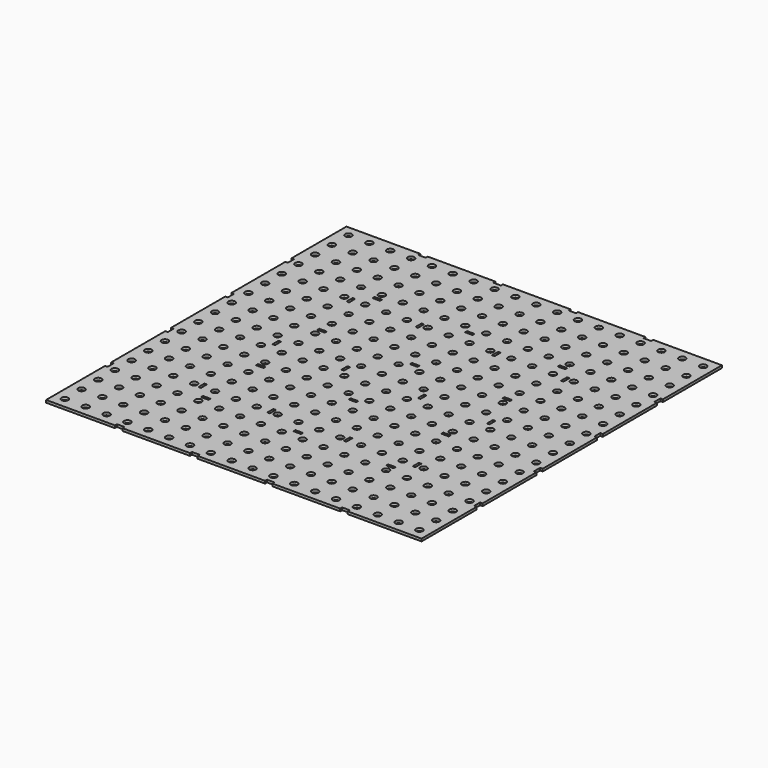
from build123d import *

# Parameters (mm, degrees)
F0_R     = 8
F0_W     = 18.02
F0_H     = 6.01
F0_W_2   = 6.01
F0_H_2   = 18.1
F1_DEPTH = 6
F2_R     = 8
F3_DEPTH = 6


with BuildPart() as f1:
    # F0 (on Top) → F1 (new body)
    with BuildSketch(Plane.XY):
        Polygon((-25, -698.02), (-25, -874.92), (140, -874.92), (140, -868.91), (158.1, -868.91), (158.1, -874.92), (320, -874.92), (320, -868.91), (338.1, -868.91), (338.1, -874.92), (500, -874.92), (500, -868.91), (518.1, -868.91), (518.1, -874.92), (680, -874.92), (680, -868.91), (698.1, -868.91), (698.1, -874.92), (875, -874.92), (875, -709.92), (868.99, -709.92), (868.99, -691.82), (875, -691.82), (875, -529.92), (868.99, -529.92), (868.99, -511.82), (875, -511.82), (875, -349.92), (868.99, -349.92), (868.99, -331.82), (875, -331.82), (875, -169.92), (868.99, -169.92), (868.99, -151.82), (875, -151.82), (875, 25.08), (710, 25.08), (710, 19.07), (691.9, 19.07), (691.9, 25.08), (530, 25.08), (530, 19.07), (511.9, 19.07), (511.9, 25.08), (350, 25.08), (350, 19.07), (331.9, 19.07), (331.9, 25.08), (170, 25.08), (170, 19.07), (151.9, 19.07), (151.9, 25.08), (-25, 25.08), (-25, -139.92), (-18.99, -139.92), (-18.99, -158.02), (-25, -158.02), (-25, -319.92), (-18.99, -319.92), (-18.99, -338.02), (-25, -338.02), (-25, -499.92), (-18.99, -499.92), (-18.99, -518.02), (-25, -518.02), (-25, -679.92), (-18.99, -679.92), (-18.99, -698.02), align=None)
        with Locations((0, -849.92)):
            Circle(F0_R, mode=Mode.SUBTRACT)
        with Locations((50, -849.92)):
            Circle(F0_R, mode=Mode.SUBTRACT)
        with Locations((0, -799.92)):
            Circle(F0_R, mode=Mode.SUBTRACT)
        with Locations((50, -799.92)):
            Circle(F0_R, mode=Mode.SUBTRACT)
        with Locations((100, -849.92)):
            Circle(F0_R, mode=Mode.SUBTRACT)
        with Locations((150, -849.92)):
            Circle(F0_R, mode=Mode.SUBTRACT)
        with Locations((100, -799.92)):
            Circle(F0_R, mode=Mode.SUBTRACT)
        with Locations((150, -799.92)):
            Circle(F0_R, mode=Mode.SUBTRACT)
        with Locations((0, -749.92)):
            Circle(F0_R, mode=Mode.SUBTRACT)
        with Locations((50, -749.92)):
            Circle(F0_R, mode=Mode.SUBTRACT)
        with Locations((0, -699.92)):
            Circle(F0_R, mode=Mode.SUBTRACT)
        with Locations((50, -699.92)):
            Circle(F0_R, mode=Mode.SUBTRACT)
        with Locations((100, -749.92)):
            Circle(F0_R, mode=Mode.SUBTRACT)
        with Locations((150, -749.92)):
            Circle(F0_R, mode=Mode.SUBTRACT)
        with Locations((100, -699.92)):
            Circle(F0_R, mode=Mode.SUBTRACT)
        with Locations((150, -699.92)):
            Circle(F0_R, mode=Mode.SUBTRACT)
        with Locations((200, -849.92)):
            Circle(F0_R, mode=Mode.SUBTRACT)
        with Locations((250, -849.92)):
            Circle(F0_R, mode=Mode.SUBTRACT)
        with Locations((300, -849.92)):
            Circle(F0_R, mode=Mode.SUBTRACT)
        with Locations((200, -799.92)):
            Circle(F0_R, mode=Mode.SUBTRACT)
        with Locations((250, -799.92)):
            Circle(F0_R, mode=Mode.SUBTRACT)
        with Locations((300, -799.92)):
            Circle(F0_R, mode=Mode.SUBTRACT)
        with Locations((350, -849.92)):
            Circle(F0_R, mode=Mode.SUBTRACT)
        with Locations((400, -849.92)):
            Circle(F0_R, mode=Mode.SUBTRACT)
        with Locations((350, -799.92)):
            Circle(F0_R, mode=Mode.SUBTRACT)
        with Locations((400, -799.92)):
            Circle(F0_R, mode=Mode.SUBTRACT)
        with Locations((200, -749.92)):
            Circle(F0_R, mode=Mode.SUBTRACT)
        with Locations((250, -749.92)):
            Circle(F0_R, mode=Mode.SUBTRACT)
        with Locations((300, -749.92)):
            Circle(F0_R, mode=Mode.SUBTRACT)
        with Locations((200, -699.92)):
            Circle(F0_R, mode=Mode.SUBTRACT)
        with Locations((203, -681.915)):
            Rectangle(F0_W, F0_H, mode=Mode.SUBTRACT)
        with Locations((250, -699.92)):
            Circle(F0_R, mode=Mode.SUBTRACT)
        with Locations((300, -699.92)):
            Circle(F0_R, mode=Mode.SUBTRACT)
        with Locations((350, -749.92)):
            Circle(F0_R, mode=Mode.SUBTRACT)
        with Locations((400, -749.92)):
            Circle(F0_R, mode=Mode.SUBTRACT)
        with Locations((350, -699.92)):
            Circle(F0_R, mode=Mode.SUBTRACT)
        with Locations((400, -699.92)):
            Circle(F0_R, mode=Mode.SUBTRACT)
        with Locations((0, -649.92)):
            Circle(F0_R, mode=Mode.SUBTRACT)
        with Locations((0, -599.92)):
            Circle(F0_R, mode=Mode.SUBTRACT)
        with Locations((50, -649.92)):
            Circle(F0_R, mode=Mode.SUBTRACT)
        with Locations((50, -599.92)):
            Circle(F0_R, mode=Mode.SUBTRACT)
        with Locations((0, -549.92)):
            Circle(F0_R, mode=Mode.SUBTRACT)
        with Locations((50, -549.92)):
            Circle(F0_R, mode=Mode.SUBTRACT)
        with Locations((100, -649.92)):
            Circle(F0_R, mode=Mode.SUBTRACT)
        with Locations((100, -599.92)):
            Circle(F0_R, mode=Mode.SUBTRACT)
        with Locations((150, -649.92)):
            Circle(F0_R, mode=Mode.SUBTRACT)
        with Locations((168.005, -646.96)):
            Rectangle(F0_W_2, F0_H_2, mode=Mode.SUBTRACT)
        with Locations((150, -599.92)):
            Circle(F0_R, mode=Mode.SUBTRACT)
        with Locations((100, -549.92)):
            Circle(F0_R, mode=Mode.SUBTRACT)
        with Locations((150, -549.92)):
            Circle(F0_R, mode=Mode.SUBTRACT)
        with Locations((0, -499.92)):
            Circle(F0_R, mode=Mode.SUBTRACT)
        with Locations((50, -499.92)):
            Circle(F0_R, mode=Mode.SUBTRACT)
        with Locations((0, -449.92)):
            Circle(F0_R, mode=Mode.SUBTRACT)
        with Locations((50, -449.92)):
            Circle(F0_R, mode=Mode.SUBTRACT)
        with Locations((100, -499.92)):
            Circle(F0_R, mode=Mode.SUBTRACT)
        with Locations((150, -499.92)):
            Circle(F0_R, mode=Mode.SUBTRACT)
        with Locations((100, -449.92)):
            Circle(F0_R, mode=Mode.SUBTRACT)
        with Locations((150, -449.92)):
            Circle(F0_R, mode=Mode.SUBTRACT)
        with Locations((168.005, -424.96)):
            Rectangle(F0_W_2, F0_H_2, mode=Mode.SUBTRACT)
        with Locations((200, -649.92)):
            Circle(F0_R, mode=Mode.SUBTRACT)
        with Locations((250, -649.92)):
            Circle(F0_R, mode=Mode.SUBTRACT)
        with Locations((200, -599.92)):
            Circle(F0_R, mode=Mode.SUBTRACT)
        with Locations((250, -599.92)):
            Circle(F0_R, mode=Mode.SUBTRACT)
        with Locations((300, -649.92)):
            Circle(F0_R, mode=Mode.SUBTRACT)
        with Locations((300, -599.92)):
            Circle(F0_R, mode=Mode.SUBTRACT)
        with Locations((200, -549.92)):
            Circle(F0_R, mode=Mode.SUBTRACT)
        with Locations((250, -549.92)):
            Circle(F0_R, mode=Mode.SUBTRACT)
        with Locations((300, -549.92)):
            Circle(F0_R, mode=Mode.SUBTRACT)
        with Locations((333.205, -646.96)):
            Rectangle(F0_W_2, F0_H_2, mode=Mode.SUBTRACT)
        with Locations((350, -649.92)):
            Circle(F0_R, mode=Mode.SUBTRACT)
        with Locations((350, -599.92)):
            Circle(F0_R, mode=Mode.SUBTRACT)
        with Locations((400, -649.92)):
            Circle(F0_R, mode=Mode.SUBTRACT)
        with Locations((400, -599.92)):
            Circle(F0_R, mode=Mode.SUBTRACT)
        with Locations((350, -549.92)):
            Circle(F0_R, mode=Mode.SUBTRACT)
        with Locations((400, -549.92)):
            Circle(F0_R, mode=Mode.SUBTRACT)
        with Locations((203, -516.715)):
            Rectangle(F0_W, F0_H, mode=Mode.SUBTRACT)
        with Locations((200, -499.92)):
            Circle(F0_R, mode=Mode.SUBTRACT)
        with Locations((250, -499.92)):
            Circle(F0_R, mode=Mode.SUBTRACT)
        with Locations((300, -499.92)):
            Circle(F0_R, mode=Mode.SUBTRACT)
        with Locations((200, -449.92)):
            Circle(F0_R, mode=Mode.SUBTRACT)
        with Locations((250, -449.92)):
            Circle(F0_R, mode=Mode.SUBTRACT)
        with Locations((300, -449.92)):
            Circle(F0_R, mode=Mode.SUBTRACT)
        with Locations((350, -499.92)):
            Circle(F0_R, mode=Mode.SUBTRACT)
        with Locations((400, -499.92)):
            Circle(F0_R, mode=Mode.SUBTRACT)
        with Locations((333.205, -424.96)):
            Rectangle(F0_W_2, F0_H_2, mode=Mode.SUBTRACT)
        with Locations((350, -449.92)):
            Circle(F0_R, mode=Mode.SUBTRACT)
        with Locations((400, -449.92)):
            Circle(F0_R, mode=Mode.SUBTRACT)
        with Locations((450, -849.92)):
            Circle(F0_R, mode=Mode.SUBTRACT)
        with Locations((500, -849.92)):
            Circle(F0_R, mode=Mode.SUBTRACT)
        with Locations((450, -799.92)):
            Circle(F0_R, mode=Mode.SUBTRACT)
        with Locations((500, -799.92)):
            Circle(F0_R, mode=Mode.SUBTRACT)
        with Locations((550, -849.92)):
            Circle(F0_R, mode=Mode.SUBTRACT)
        with Locations((600, -849.92)):
            Circle(F0_R, mode=Mode.SUBTRACT)
        with Locations((550, -799.92)):
            Circle(F0_R, mode=Mode.SUBTRACT)
        with Locations((600, -799.92)):
            Circle(F0_R, mode=Mode.SUBTRACT)
        with Locations((450, -749.92)):
            Circle(F0_R, mode=Mode.SUBTRACT)
        with Locations((500, -749.92)):
            Circle(F0_R, mode=Mode.SUBTRACT)
        with Locations((450, -699.92)):
            Circle(F0_R, mode=Mode.SUBTRACT)
        with Locations((425, -681.915)):
            Rectangle(F0_W, F0_H, mode=Mode.SUBTRACT)
        with Locations((500, -699.92)):
            Circle(F0_R, mode=Mode.SUBTRACT)
        with Locations((550, -749.92)):
            Circle(F0_R, mode=Mode.SUBTRACT)
        with Locations((600, -749.92)):
            Circle(F0_R, mode=Mode.SUBTRACT)
        with Locations((550, -699.92)):
            Circle(F0_R, mode=Mode.SUBTRACT)
        with Locations((600, -699.92)):
            Circle(F0_R, mode=Mode.SUBTRACT)
        with Locations((647, -681.915)):
            Rectangle(F0_W, F0_H, mode=Mode.SUBTRACT)
        with Locations((650, -849.92)):
            Circle(F0_R, mode=Mode.SUBTRACT)
        with Locations((700, -849.92)):
            Circle(F0_R, mode=Mode.SUBTRACT)
        with Locations((750, -849.92)):
            Circle(F0_R, mode=Mode.SUBTRACT)
        with Locations((650, -799.92)):
            Circle(F0_R, mode=Mode.SUBTRACT)
        with Locations((700, -799.92)):
            Circle(F0_R, mode=Mode.SUBTRACT)
        with Locations((750, -799.92)):
            Circle(F0_R, mode=Mode.SUBTRACT)
        with Locations((800, -849.92)):
            Circle(F0_R, mode=Mode.SUBTRACT)
        with Locations((850, -849.92)):
            Circle(F0_R, mode=Mode.SUBTRACT)
        with Locations((800, -799.92)):
            Circle(F0_R, mode=Mode.SUBTRACT)
        with Locations((850, -799.92)):
            Circle(F0_R, mode=Mode.SUBTRACT)
        with Locations((650, -749.92)):
            Circle(F0_R, mode=Mode.SUBTRACT)
        with Locations((700, -749.92)):
            Circle(F0_R, mode=Mode.SUBTRACT)
        with Locations((750, -749.92)):
            Circle(F0_R, mode=Mode.SUBTRACT)
        with Locations((650, -699.92)):
            Circle(F0_R, mode=Mode.SUBTRACT)
        with Locations((700, -699.92)):
            Circle(F0_R, mode=Mode.SUBTRACT)
        with Locations((750, -699.92)):
            Circle(F0_R, mode=Mode.SUBTRACT)
        with Locations((800, -749.92)):
            Circle(F0_R, mode=Mode.SUBTRACT)
        with Locations((850, -749.92)):
            Circle(F0_R, mode=Mode.SUBTRACT)
        with Locations((800, -699.92)):
            Circle(F0_R, mode=Mode.SUBTRACT)
        with Locations((850, -699.92)):
            Circle(F0_R, mode=Mode.SUBTRACT)
        with Locations((450, -649.92)):
            Circle(F0_R, mode=Mode.SUBTRACT)
        with Locations((450, -599.92)):
            Circle(F0_R, mode=Mode.SUBTRACT)
        with Locations((500, -649.92)):
            Circle(F0_R, mode=Mode.SUBTRACT)
        with Locations((516.795, -646.96)):
            Rectangle(F0_W_2, F0_H_2, mode=Mode.SUBTRACT)
        with Locations((500, -599.92)):
            Circle(F0_R, mode=Mode.SUBTRACT)
        with Locations((450, -549.92)):
            Circle(F0_R, mode=Mode.SUBTRACT)
        with Locations((500, -549.92)):
            Circle(F0_R, mode=Mode.SUBTRACT)
        with Locations((550, -649.92)):
            Circle(F0_R, mode=Mode.SUBTRACT)
        with Locations((550, -599.92)):
            Circle(F0_R, mode=Mode.SUBTRACT)
        with Locations((600, -649.92)):
            Circle(F0_R, mode=Mode.SUBTRACT)
        with Locations((600, -599.92)):
            Circle(F0_R, mode=Mode.SUBTRACT)
        with Locations((550, -549.92)):
            Circle(F0_R, mode=Mode.SUBTRACT)
        with Locations((600, -549.92)):
            Circle(F0_R, mode=Mode.SUBTRACT)
        with Locations((425, -516.715)):
            Rectangle(F0_W, F0_H, mode=Mode.SUBTRACT)
        with Locations((450, -499.92)):
            Circle(F0_R, mode=Mode.SUBTRACT)
        with Locations((500, -499.92)):
            Circle(F0_R, mode=Mode.SUBTRACT)
        with Locations((450, -449.92)):
            Circle(F0_R, mode=Mode.SUBTRACT)
        with Locations((500, -449.92)):
            Circle(F0_R, mode=Mode.SUBTRACT)
        with Locations((516.795, -424.96)):
            Rectangle(F0_W_2, F0_H_2, mode=Mode.SUBTRACT)
        with Locations((550, -499.92)):
            Circle(F0_R, mode=Mode.SUBTRACT)
        with Locations((647, -516.715)):
            Rectangle(F0_W, F0_H, mode=Mode.SUBTRACT)
        with Locations((600, -499.92)):
            Circle(F0_R, mode=Mode.SUBTRACT)
        with Locations((550, -449.92)):
            Circle(F0_R, mode=Mode.SUBTRACT)
        with Locations((600, -449.92)):
            Circle(F0_R, mode=Mode.SUBTRACT)
        with Locations((650, -649.92)):
            Circle(F0_R, mode=Mode.SUBTRACT)
        with Locations((681.995, -646.96)):
            Rectangle(F0_W_2, F0_H_2, mode=Mode.SUBTRACT)
        with Locations((700, -649.92)):
            Circle(F0_R, mode=Mode.SUBTRACT)
        with Locations((650, -599.92)):
            Circle(F0_R, mode=Mode.SUBTRACT)
        with Locations((700, -599.92)):
            Circle(F0_R, mode=Mode.SUBTRACT)
        with Locations((750, -649.92)):
            Circle(F0_R, mode=Mode.SUBTRACT)
        with Locations((750, -599.92)):
            Circle(F0_R, mode=Mode.SUBTRACT)
        with Locations((650, -549.92)):
            Circle(F0_R, mode=Mode.SUBTRACT)
        with Locations((700, -549.92)):
            Circle(F0_R, mode=Mode.SUBTRACT)
        with Locations((750, -549.92)):
            Circle(F0_R, mode=Mode.SUBTRACT)
        with Locations((800, -649.92)):
            Circle(F0_R, mode=Mode.SUBTRACT)
        with Locations((800, -599.92)):
            Circle(F0_R, mode=Mode.SUBTRACT)
        with Locations((850, -649.92)):
            Circle(F0_R, mode=Mode.SUBTRACT)
        with Locations((850, -599.92)):
            Circle(F0_R, mode=Mode.SUBTRACT)
        with Locations((800, -549.92)):
            Circle(F0_R, mode=Mode.SUBTRACT)
        with Locations((850, -549.92)):
            Circle(F0_R, mode=Mode.SUBTRACT)
        with Locations((650, -499.92)):
            Circle(F0_R, mode=Mode.SUBTRACT)
        with Locations((700, -499.92)):
            Circle(F0_R, mode=Mode.SUBTRACT)
        with Locations((750, -499.92)):
            Circle(F0_R, mode=Mode.SUBTRACT)
        with Locations((650, -449.92)):
            Circle(F0_R, mode=Mode.SUBTRACT)
        with Locations((700, -449.92)):
            Circle(F0_R, mode=Mode.SUBTRACT)
        with Locations((681.995, -424.96)):
            Rectangle(F0_W_2, F0_H_2, mode=Mode.SUBTRACT)
        with Locations((750, -449.92)):
            Circle(F0_R, mode=Mode.SUBTRACT)
        with Locations((800, -499.92)):
            Circle(F0_R, mode=Mode.SUBTRACT)
        with Locations((850, -499.92)):
            Circle(F0_R, mode=Mode.SUBTRACT)
        with Locations((800, -449.92)):
            Circle(F0_R, mode=Mode.SUBTRACT)
        with Locations((850, -449.92)):
            Circle(F0_R, mode=Mode.SUBTRACT)
        with Locations((0, -399.92)):
            Circle(F0_R, mode=Mode.SUBTRACT)
        with Locations((50, -399.92)):
            Circle(F0_R, mode=Mode.SUBTRACT)
        with Locations((0, -349.92)):
            Circle(F0_R, mode=Mode.SUBTRACT)
        with Locations((50, -349.92)):
            Circle(F0_R, mode=Mode.SUBTRACT)
        with Locations((100, -399.92)):
            Circle(F0_R, mode=Mode.SUBTRACT)
        with Locations((150, -399.92)):
            Circle(F0_R, mode=Mode.SUBTRACT)
        with Locations((100, -349.92)):
            Circle(F0_R, mode=Mode.SUBTRACT)
        with Locations((150, -349.92)):
            Circle(F0_R, mode=Mode.SUBTRACT)
        with Locations((0, -299.92)):
            Circle(F0_R, mode=Mode.SUBTRACT)
        with Locations((50, -299.92)):
            Circle(F0_R, mode=Mode.SUBTRACT)
        with Locations((0, -249.92)):
            Circle(F0_R, mode=Mode.SUBTRACT)
        with Locations((50, -249.92)):
            Circle(F0_R, mode=Mode.SUBTRACT)
        with Locations((100, -299.92)):
            Circle(F0_R, mode=Mode.SUBTRACT)
        with Locations((150, -299.92)):
            Circle(F0_R, mode=Mode.SUBTRACT)
        with Locations((100, -249.92)):
            Circle(F0_R, mode=Mode.SUBTRACT)
        with Locations((150, -249.92)):
            Circle(F0_R, mode=Mode.SUBTRACT)
        with Locations((168.005, -202.96)):
            Rectangle(F0_W_2, F0_H_2, mode=Mode.SUBTRACT)
        with Locations((200, -399.92)):
            Circle(F0_R, mode=Mode.SUBTRACT)
        with Locations((250, -399.92)):
            Circle(F0_R, mode=Mode.SUBTRACT)
        with Locations((300, -399.92)):
            Circle(F0_R, mode=Mode.SUBTRACT)
        with Locations((200, -349.92)):
            Circle(F0_R, mode=Mode.SUBTRACT)
        with Locations((250, -349.92)):
            Circle(F0_R, mode=Mode.SUBTRACT)
        with Locations((203, -333.125)):
            Rectangle(F0_W, F0_H, mode=Mode.SUBTRACT)
        with Locations((300, -349.92)):
            Circle(F0_R, mode=Mode.SUBTRACT)
        with Locations((350, -399.92)):
            Circle(F0_R, mode=Mode.SUBTRACT)
        with Locations((400, -399.92)):
            Circle(F0_R, mode=Mode.SUBTRACT)
        with Locations((350, -349.92)):
            Circle(F0_R, mode=Mode.SUBTRACT)
        with Locations((400, -349.92)):
            Circle(F0_R, mode=Mode.SUBTRACT)
        with Locations((200, -299.92)):
            Circle(F0_R, mode=Mode.SUBTRACT)
        with Locations((250, -299.92)):
            Circle(F0_R, mode=Mode.SUBTRACT)
        with Locations((300, -299.92)):
            Circle(F0_R, mode=Mode.SUBTRACT)
        with Locations((200, -249.92)):
            Circle(F0_R, mode=Mode.SUBTRACT)
        with Locations((250, -249.92)):
            Circle(F0_R, mode=Mode.SUBTRACT)
        with Locations((300, -249.92)):
            Circle(F0_R, mode=Mode.SUBTRACT)
        with Locations((350, -299.92)):
            Circle(F0_R, mode=Mode.SUBTRACT)
        with Locations((400, -299.92)):
            Circle(F0_R, mode=Mode.SUBTRACT)
        with Locations((350, -249.92)):
            Circle(F0_R, mode=Mode.SUBTRACT)
        with Locations((333.205, -202.96)):
            Rectangle(F0_W_2, F0_H_2, mode=Mode.SUBTRACT)
        with Locations((400, -249.92)):
            Circle(F0_R, mode=Mode.SUBTRACT)
        with Locations((0, -199.92)):
            Circle(F0_R, mode=Mode.SUBTRACT)
        with Locations((0, -150)):
            Circle(F0_R, mode=Mode.SUBTRACT)
        with Locations((50, -199.92)):
            Circle(F0_R, mode=Mode.SUBTRACT)
        with Locations((50, -150)):
            Circle(F0_R, mode=Mode.SUBTRACT)
        with Locations((0, -100)):
            Circle(F0_R, mode=Mode.SUBTRACT)
        with Locations((50, -100)):
            Circle(F0_R, mode=Mode.SUBTRACT)
        with Locations((100, -199.92)):
            Circle(F0_R, mode=Mode.SUBTRACT)
        with Locations((100, -150)):
            Circle(F0_R, mode=Mode.SUBTRACT)
        with Locations((150, -199.92)):
            Circle(F0_R, mode=Mode.SUBTRACT)
        with Locations((150, -150)):
            Circle(F0_R, mode=Mode.SUBTRACT)
        with Locations((100, -100)):
            Circle(F0_R, mode=Mode.SUBTRACT)
        with Locations((150, -100)):
            Circle(F0_R, mode=Mode.SUBTRACT)
        with Locations((0, -50)):
            Circle(F0_R, mode=Mode.SUBTRACT)
        with Locations((50, -50)):
            Circle(F0_R, mode=Mode.SUBTRACT)
        Circle(F0_R, mode=Mode.SUBTRACT)
        with Locations((50, 0)):
            Circle(F0_R, mode=Mode.SUBTRACT)
        with Locations((100, -50)):
            Circle(F0_R, mode=Mode.SUBTRACT)
        with Locations((150, -50)):
            Circle(F0_R, mode=Mode.SUBTRACT)
        with Locations((100, 0)):
            Circle(F0_R, mode=Mode.SUBTRACT)
        with Locations((150, 0.08)):
            Circle(F0_R, mode=Mode.SUBTRACT)
        with Locations((200, -199.92)):
            Circle(F0_R, mode=Mode.SUBTRACT)
        with Locations((250, -199.92)):
            Circle(F0_R, mode=Mode.SUBTRACT)
        with Locations((203, -167.925)):
            Rectangle(F0_W, F0_H, mode=Mode.SUBTRACT)
        with Locations((200, -150)):
            Circle(F0_R, mode=Mode.SUBTRACT)
        with Locations((250, -150)):
            Circle(F0_R, mode=Mode.SUBTRACT)
        with Locations((300, -199.92)):
            Circle(F0_R, mode=Mode.SUBTRACT)
        with Locations((300, -150)):
            Circle(F0_R, mode=Mode.SUBTRACT)
        with Locations((200, -100)):
            Circle(F0_R, mode=Mode.SUBTRACT)
        with Locations((250, -100)):
            Circle(F0_R, mode=Mode.SUBTRACT)
        with Locations((300, -100)):
            Circle(F0_R, mode=Mode.SUBTRACT)
        with Locations((350, -199.92)):
            Circle(F0_R, mode=Mode.SUBTRACT)
        with Locations((350, -150)):
            Circle(F0_R, mode=Mode.SUBTRACT)
        with Locations((400, -199.92)):
            Circle(F0_R, mode=Mode.SUBTRACT)
        with Locations((400, -150)):
            Circle(F0_R, mode=Mode.SUBTRACT)
        with Locations((350, -100)):
            Circle(F0_R, mode=Mode.SUBTRACT)
        with Locations((400, -100)):
            Circle(F0_R, mode=Mode.SUBTRACT)
        with Locations((200, -50)):
            Circle(F0_R, mode=Mode.SUBTRACT)
        with Locations((250, -50)):
            Circle(F0_R, mode=Mode.SUBTRACT)
        with Locations((300, -50)):
            Circle(F0_R, mode=Mode.SUBTRACT)
        with Locations((200, 0.08)):
            Circle(F0_R, mode=Mode.SUBTRACT)
        with Locations((250, 0.08)):
            Circle(F0_R, mode=Mode.SUBTRACT)
        with Locations((300, 0.08)):
            Circle(F0_R, mode=Mode.SUBTRACT)
        with Locations((350, -50)):
            Circle(F0_R, mode=Mode.SUBTRACT)
        with Locations((400, -50)):
            Circle(F0_R, mode=Mode.SUBTRACT)
        with Locations((350, 0.08)):
            Circle(F0_R, mode=Mode.SUBTRACT)
        with Locations((400, 0.08)):
            Circle(F0_R, mode=Mode.SUBTRACT)
        with Locations((450, -399.92)):
            Circle(F0_R, mode=Mode.SUBTRACT)
        with Locations((500, -399.92)):
            Circle(F0_R, mode=Mode.SUBTRACT)
        with Locations((450, -349.92)):
            Circle(F0_R, mode=Mode.SUBTRACT)
        with Locations((425, -333.125)):
            Rectangle(F0_W, F0_H, mode=Mode.SUBTRACT)
        with Locations((500, -349.92)):
            Circle(F0_R, mode=Mode.SUBTRACT)
        with Locations((550, -399.92)):
            Circle(F0_R, mode=Mode.SUBTRACT)
        with Locations((600, -399.92)):
            Circle(F0_R, mode=Mode.SUBTRACT)
        with Locations((550, -349.92)):
            Circle(F0_R, mode=Mode.SUBTRACT)
        with Locations((600, -349.92)):
            Circle(F0_R, mode=Mode.SUBTRACT)
        with Locations((647, -333.125)):
            Rectangle(F0_W, F0_H, mode=Mode.SUBTRACT)
        with Locations((450, -299.92)):
            Circle(F0_R, mode=Mode.SUBTRACT)
        with Locations((500, -299.92)):
            Circle(F0_R, mode=Mode.SUBTRACT)
        with Locations((450, -249.92)):
            Circle(F0_R, mode=Mode.SUBTRACT)
        with Locations((500, -249.92)):
            Circle(F0_R, mode=Mode.SUBTRACT)
        with Locations((516.795, -202.96)):
            Rectangle(F0_W_2, F0_H_2, mode=Mode.SUBTRACT)
        with Locations((550, -299.92)):
            Circle(F0_R, mode=Mode.SUBTRACT)
        with Locations((600, -299.92)):
            Circle(F0_R, mode=Mode.SUBTRACT)
        with Locations((550, -249.92)):
            Circle(F0_R, mode=Mode.SUBTRACT)
        with Locations((600, -249.92)):
            Circle(F0_R, mode=Mode.SUBTRACT)
        with Locations((650, -399.92)):
            Circle(F0_R, mode=Mode.SUBTRACT)
        with Locations((700, -399.92)):
            Circle(F0_R, mode=Mode.SUBTRACT)
        with Locations((750, -399.92)):
            Circle(F0_R, mode=Mode.SUBTRACT)
        with Locations((650, -349.92)):
            Circle(F0_R, mode=Mode.SUBTRACT)
        with Locations((700, -349.92)):
            Circle(F0_R, mode=Mode.SUBTRACT)
        with Locations((750, -349.92)):
            Circle(F0_R, mode=Mode.SUBTRACT)
        with Locations((800, -399.92)):
            Circle(F0_R, mode=Mode.SUBTRACT)
        with Locations((850, -399.92)):
            Circle(F0_R, mode=Mode.SUBTRACT)
        with Locations((800, -349.92)):
            Circle(F0_R, mode=Mode.SUBTRACT)
        with Locations((850, -349.92)):
            Circle(F0_R, mode=Mode.SUBTRACT)
        with Locations((650, -299.92)):
            Circle(F0_R, mode=Mode.SUBTRACT)
        with Locations((700, -299.92)):
            Circle(F0_R, mode=Mode.SUBTRACT)
        with Locations((750, -299.92)):
            Circle(F0_R, mode=Mode.SUBTRACT)
        with Locations((650, -249.92)):
            Circle(F0_R, mode=Mode.SUBTRACT)
        with Locations((700, -249.92)):
            Circle(F0_R, mode=Mode.SUBTRACT)
        with Locations((681.995, -202.96)):
            Rectangle(F0_W_2, F0_H_2, mode=Mode.SUBTRACT)
        with Locations((750, -249.92)):
            Circle(F0_R, mode=Mode.SUBTRACT)
        with Locations((800, -299.92)):
            Circle(F0_R, mode=Mode.SUBTRACT)
        with Locations((850, -299.92)):
            Circle(F0_R, mode=Mode.SUBTRACT)
        with Locations((800, -249.92)):
            Circle(F0_R, mode=Mode.SUBTRACT)
        with Locations((850, -249.92)):
            Circle(F0_R, mode=Mode.SUBTRACT)
        with Locations((450, -199.92)):
            Circle(F0_R, mode=Mode.SUBTRACT)
        with Locations((425, -167.925)):
            Rectangle(F0_W, F0_H, mode=Mode.SUBTRACT)
        with Locations((450, -150)):
            Circle(F0_R, mode=Mode.SUBTRACT)
        with Locations((500, -199.92)):
            Circle(F0_R, mode=Mode.SUBTRACT)
        with Locations((500, -150)):
            Circle(F0_R, mode=Mode.SUBTRACT)
        with Locations((450, -100)):
            Circle(F0_R, mode=Mode.SUBTRACT)
        with Locations((500, -100)):
            Circle(F0_R, mode=Mode.SUBTRACT)
        with Locations((550, -199.92)):
            Circle(F0_R, mode=Mode.SUBTRACT)
        with Locations((550, -150)):
            Circle(F0_R, mode=Mode.SUBTRACT)
        with Locations((600, -199.92)):
            Circle(F0_R, mode=Mode.SUBTRACT)
        with Locations((600, -150)):
            Circle(F0_R, mode=Mode.SUBTRACT)
        with Locations((647, -167.925)):
            Rectangle(F0_W, F0_H, mode=Mode.SUBTRACT)
        with Locations((550, -100)):
            Circle(F0_R, mode=Mode.SUBTRACT)
        with Locations((600, -100)):
            Circle(F0_R, mode=Mode.SUBTRACT)
        with Locations((450, -50)):
            Circle(F0_R, mode=Mode.SUBTRACT)
        with Locations((500, -50)):
            Circle(F0_R, mode=Mode.SUBTRACT)
        with Locations((450, 0.08)):
            Circle(F0_R, mode=Mode.SUBTRACT)
        with Locations((500, 0.08)):
            Circle(F0_R, mode=Mode.SUBTRACT)
        with Locations((550, -50)):
            Circle(F0_R, mode=Mode.SUBTRACT)
        with Locations((600, -50)):
            Circle(F0_R, mode=Mode.SUBTRACT)
        with Locations((550, 0.08)):
            Circle(F0_R, mode=Mode.SUBTRACT)
        with Locations((600, 0.08)):
            Circle(F0_R, mode=Mode.SUBTRACT)
        with Locations((650, -199.92)):
            Circle(F0_R, mode=Mode.SUBTRACT)
        with Locations((700, -199.92)):
            Circle(F0_R, mode=Mode.SUBTRACT)
        with Locations((650, -150)):
            Circle(F0_R, mode=Mode.SUBTRACT)
        with Locations((700, -150)):
            Circle(F0_R, mode=Mode.SUBTRACT)
        with Locations((750, -199.92)):
            Circle(F0_R, mode=Mode.SUBTRACT)
        with Locations((750, -150)):
            Circle(F0_R, mode=Mode.SUBTRACT)
        with Locations((650, -100)):
            Circle(F0_R, mode=Mode.SUBTRACT)
        with Locations((700, -100)):
            Circle(F0_R, mode=Mode.SUBTRACT)
        with Locations((750, -100)):
            Circle(F0_R, mode=Mode.SUBTRACT)
        with Locations((800, -199.92)):
            Circle(F0_R, mode=Mode.SUBTRACT)
        with Locations((800, -150)):
            Circle(F0_R, mode=Mode.SUBTRACT)
        with Locations((850, -199.92)):
            Circle(F0_R, mode=Mode.SUBTRACT)
        with Locations((850, -150)):
            Circle(F0_R, mode=Mode.SUBTRACT)
        with Locations((800, -100)):
            Circle(F0_R, mode=Mode.SUBTRACT)
        with Locations((850, -100)):
            Circle(F0_R, mode=Mode.SUBTRACT)
        with Locations((650, -50)):
            Circle(F0_R, mode=Mode.SUBTRACT)
        with Locations((700, -50)):
            Circle(F0_R, mode=Mode.SUBTRACT)
        with Locations((750, -50)):
            Circle(F0_R, mode=Mode.SUBTRACT)
        with Locations((650, 0.08)):
            Circle(F0_R, mode=Mode.SUBTRACT)
        with Locations((700, 0.08)):
            Circle(F0_R, mode=Mode.SUBTRACT)
        with Locations((750, 0.08)):
            Circle(F0_R, mode=Mode.SUBTRACT)
        with Locations((800, -50)):
            Circle(F0_R, mode=Mode.SUBTRACT)
        with Locations((850, -50)):
            Circle(F0_R, mode=Mode.SUBTRACT)
        with Locations((800, 0.08)):
            Circle(F0_R, mode=Mode.SUBTRACT)
        with Locations((850, 0.08)):
            Circle(F0_R, mode=Mode.SUBTRACT)
    extrude(amount=F1_DEPTH)


with BuildPart() as f3:
    # F2 (on Front) → F3 (new body)
    with BuildSketch(Plane.XZ):
        Polygon((140.373021, -176.028892), (-30.626979, -176.028892), (-30.626979, -211.228892), (-24.616979, -211.228892), (-24.616979, -229.248892), (-30.626979, -229.248892), (-30.626979, -279.248892), (-24.616979, -279.248892), (-24.616979, -297.268892), (-30.626979, -297.268892), (-30.626979, -320.028892), (869.373021, -320.028892), (869.373021, -297.258892), (875.173021, -297.258892), (875.173021, -295.258892), (872.373021, -293.258892), (872.373021, -283.258892), (875.173021, -281.258892), (875.173021, -279.258892), (869.373021, -279.258892), (869.373021, -229.238892), (875.173021, -229.238892), (875.173021, -227.238892), (872.373021, -225.238892), (872.373021, -215.238892), (875.173021, -213.238892), (875.173021, -211.238892), (869.373021, -211.238892), (869.373021, -176.028892), (698.373021, -176.028892), (698.373021, -170.228892), (696.373021, -170.228892), (694.373021, -173.028892), (684.373021, -173.028892), (682.373021, -170.228892), (680.373021, -170.228892), (680.373021, -176.028892), (518.373021, -176.028892), (518.373021, -170.228892), (516.373021, -170.228892), (514.373021, -173.028892), (504.373021, -173.028892), (502.373021, -170.228892), (500.373021, -170.228892), (500.373021, -176.028892), (338.373021, -176.028892), (338.373021, -170.228892), (336.373021, -170.228892), (334.373021, -173.028892), (324.373021, -173.028892), (322.373021, -170.228892), (320.373021, -170.228892), (320.373021, -176.028892), (158.373021, -176.028892), (158.373021, -170.228892), (156.373021, -170.228892), (154.373021, -173.028892), (144.373021, -173.028892), (142.373021, -170.228892), (140.373021, -170.228892), align=None)
        with Locations((-5.626979, -295.028892)):
            Circle(F2_R, mode=Mode.SUBTRACT)
        with Locations((44.373021, -295.028892)):
            Circle(F2_R, mode=Mode.SUBTRACT)
        with Locations((94.373021, -295.028892)):
            Circle(F2_R, mode=Mode.SUBTRACT)
        with Locations((144.373021, -295.028892)):
            Circle(F2_R, mode=Mode.SUBTRACT)
        with Locations((194.373021, -295.028892)):
            Circle(F2_R, mode=Mode.SUBTRACT)
        with Locations((244.373021, -295.028892)):
            Circle(F2_R, mode=Mode.SUBTRACT)
        with Locations((294.373021, -295.028892)):
            Circle(F2_R, mode=Mode.SUBTRACT)
        with Locations((344.373021, -295.028892)):
            Circle(F2_R, mode=Mode.SUBTRACT)
        with Locations((394.373021, -295.028892)):
            Circle(F2_R, mode=Mode.SUBTRACT)
        with Locations((444.373021, -295.028892)):
            Circle(F2_R, mode=Mode.SUBTRACT)
        with Locations((494.373021, -295.028892)):
            Circle(F2_R, mode=Mode.SUBTRACT)
        with Locations((544.373021, -295.028892)):
            Circle(F2_R, mode=Mode.SUBTRACT)
        with Locations((594.373021, -295.028892)):
            Circle(F2_R, mode=Mode.SUBTRACT)
        with Locations((644.373021, -295.028892)):
            Circle(F2_R, mode=Mode.SUBTRACT)
        with Locations((694.373021, -295.028892)):
            Circle(F2_R, mode=Mode.SUBTRACT)
        with Locations((744.373021, -295.028892)):
            Circle(F2_R, mode=Mode.SUBTRACT)
        with Locations((794.373021, -295.028892)):
            Circle(F2_R, mode=Mode.SUBTRACT)
        with Locations((844.373021, -295.028892)):
            Circle(F2_R, mode=Mode.SUBTRACT)
        with Locations((-5.626979, -245.028892)):
            Circle(F2_R, mode=Mode.SUBTRACT)
        with Locations((44.373021, -245.028892)):
            Circle(F2_R, mode=Mode.SUBTRACT)
        with Locations((94.373021, -245.028892)):
            Circle(F2_R, mode=Mode.SUBTRACT)
        with Locations((144.373021, -245.028892)):
            Circle(F2_R, mode=Mode.SUBTRACT)
        with Locations((194.373021, -245.028892)):
            Circle(F2_R, mode=Mode.SUBTRACT)
        with Locations((244.373021, -245.028892)):
            Circle(F2_R, mode=Mode.SUBTRACT)
        with Locations((294.373021, -245.028892)):
            Circle(F2_R, mode=Mode.SUBTRACT)
        with Locations((344.373021, -245.028892)):
            Circle(F2_R, mode=Mode.SUBTRACT)
        with Locations((394.373021, -245.028892)):
            Circle(F2_R, mode=Mode.SUBTRACT)
        with Locations((-5.626979, -195.028892)):
            Circle(F2_R, mode=Mode.SUBTRACT)
        with Locations((44.373021, -195.028892)):
            Circle(F2_R, mode=Mode.SUBTRACT)
        with Locations((94.373021, -195.028892)):
            Circle(F2_R, mode=Mode.SUBTRACT)
        with Locations((144.373021, -195.028892)):
            Circle(F2_R, mode=Mode.SUBTRACT)
        with Locations((194.373021, -195.028892)):
            Circle(F2_R, mode=Mode.SUBTRACT)
        with Locations((244.373021, -195.028892)):
            Circle(F2_R, mode=Mode.SUBTRACT)
        with Locations((294.373021, -195.028892)):
            Circle(F2_R, mode=Mode.SUBTRACT)
        with Locations((344.373021, -195.028892)):
            Circle(F2_R, mode=Mode.SUBTRACT)
        with Locations((394.373021, -195.028892)):
            Circle(F2_R, mode=Mode.SUBTRACT)
        with Locations((444.373021, -245.028892)):
            Circle(F2_R, mode=Mode.SUBTRACT)
        with Locations((494.373021, -245.028892)):
            Circle(F2_R, mode=Mode.SUBTRACT)
        with Locations((544.373021, -245.028892)):
            Circle(F2_R, mode=Mode.SUBTRACT)
        with Locations((594.373021, -245.028892)):
            Circle(F2_R, mode=Mode.SUBTRACT)
        with Locations((644.373021, -245.028892)):
            Circle(F2_R, mode=Mode.SUBTRACT)
        with Locations((694.373021, -245.028892)):
            Circle(F2_R, mode=Mode.SUBTRACT)
        with Locations((744.373021, -245.028892)):
            Circle(F2_R, mode=Mode.SUBTRACT)
        with Locations((794.373021, -245.028892)):
            Circle(F2_R, mode=Mode.SUBTRACT)
        with Locations((844.373021, -245.028892)):
            Circle(F2_R, mode=Mode.SUBTRACT)
        with Locations((444.373021, -195.028892)):
            Circle(F2_R, mode=Mode.SUBTRACT)
        with Locations((494.373021, -195.028892)):
            Circle(F2_R, mode=Mode.SUBTRACT)
        with Locations((544.373021, -195.028892)):
            Circle(F2_R, mode=Mode.SUBTRACT)
        with Locations((594.373021, -195.028892)):
            Circle(F2_R, mode=Mode.SUBTRACT)
        with Locations((644.373021, -195.028892)):
            Circle(F2_R, mode=Mode.SUBTRACT)
        with Locations((694.373021, -195.028892)):
            Circle(F2_R, mode=Mode.SUBTRACT)
        with Locations((744.373021, -195.028892)):
            Circle(F2_R, mode=Mode.SUBTRACT)
        with Locations((794.373021, -195.028892)):
            Circle(F2_R, mode=Mode.SUBTRACT)
        with Locations((844.373021, -195.028892)):
            Circle(F2_R, mode=Mode.SUBTRACT)
    extrude(amount=F3_DEPTH)


solid = f1.part
